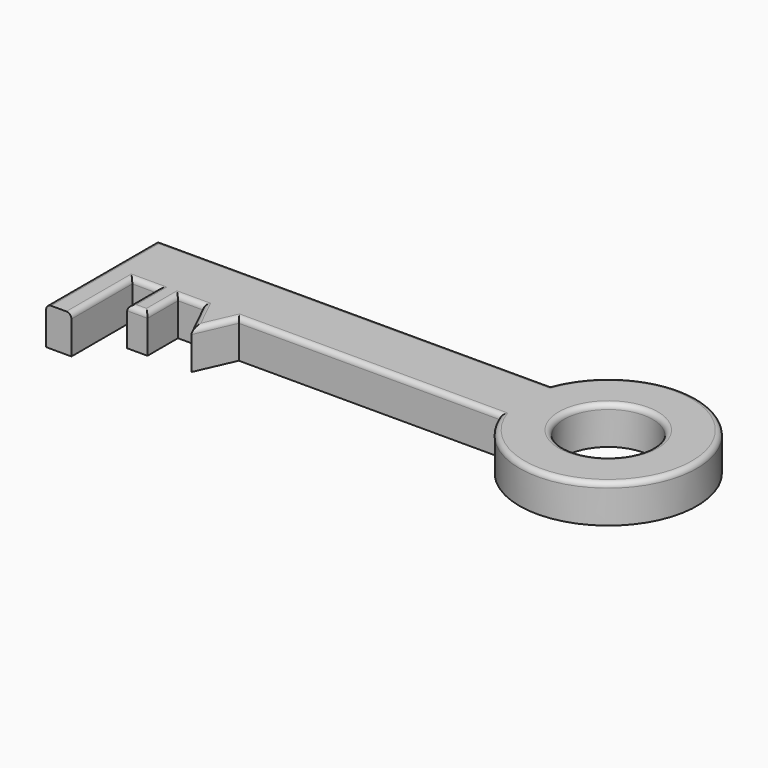
from build123d import *

# Parameters (mm, degrees)
F0_R     = 17.5
F0_W     = 10
F0_H     = 30
F0_W_2   = 8
F0_H_2   = 15
F1_DEPTH = 15
F2_R     = 2


with BuildPart() as f1:
    # F0 (on Top) → F1 (new body)
    with BuildSketch(Plane.XY):
        Polygon((-109.0468041226, 32.7149193907), (-109.0468041226, 7.7149193907), (-99.0468041226, 7.7149193907), (-89.0468041226, 7.7149193907), (-81.0468041226, 7.7149193907), (-71.0468041226, 7.7149193907), (-57.0468041226, 7.7149193907), (45.9531958774, 7.7149193907), (45.9531958774, 32.7149193907), align=None)
        with BuildLine():
            ThreePointArc((45.9531958774, 7.7149193907), (113.6449379539, 20.2149193907), (45.9531958774, 32.7149193907))
            Line((45.9531958774, 32.7149193907), (45.9531958774, 7.7149193907))
        make_face()
        with Locations((78.6449379539, 20.2149193907)):
            Circle(F0_R, mode=Mode.SUBTRACT)
        with Locations((-104.0468041226, -7.2850806093)):
            Rectangle(F0_W, F0_H)
        with Locations((-85.0468041226, 0.2149193907)):
            Rectangle(F0_W_2, F0_H_2)
        Polygon((-57.0468041226, 7.7149193907), (-71.0468041226, 7.7149193907), (-63.7032017112, -7.2850806093), align=None)
    extrude(amount=F1_DEPTH)

    # F2
    f2_edges = [f1.edges().sort_by_distance(p)[0] for p in [
        (-109.046804, 5.214919, 15),
        (-31.546804, 32.714919, 15),
        (-99.046804, -7.285081, 15),
        (-94.046804, 7.714919, 15),
        (-85.046804, -7.285081, 15),
        (-76.046804, 7.714919, 15),
        (-67.375003, 0.214919, 15),
        (-5.546804, 7.714919, 15),
        (113.644938, 20.214919, 15),
        (61.144938, 20.214919, 15),
        (-60.375003, 0.214919, 15),
        (-81.046804, 0.214919, 15),
        (-89.046804, 0.214919, 15),
    ]]
    fillet(f2_edges, radius=F2_R)


solid = f1.part
